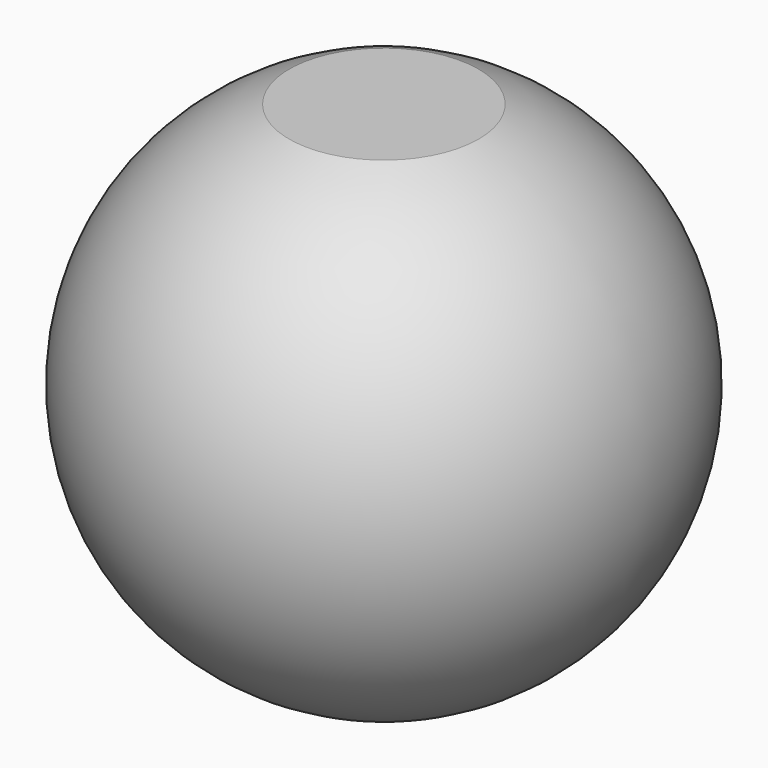
from build123d import *

# Parameters (mm, degrees)
F3_W     = 33.02
F3_H     = 33.02
F4_DEPTH = 25.4
F5_T     = -0.5


with BuildPart() as f1:
    # F0 (on Front) → F1 (revolve)
    with BuildSketch(Plane.XZ):
        with BuildLine():
            Line((0, 38.1), (0, -38.1))
            ThreePointArc((0, -38.1), (38.1, 0), (0, 38.1))
        make_face()
    revolve(axis=Axis((0, 0, 0), (0, 0, -1)))

    # F3 (on offset) → F4 (cut)
    with BuildSketch(Plane.XY.offset(35.56)):
        Rectangle(F3_W, F3_H)
    extrude(amount=F4_DEPTH, mode=Mode.SUBTRACT)

    # F5 (hollow: no face is removed)
    offset(amount=F5_T, mode=Mode.SUBTRACT)


solid = f1.part
